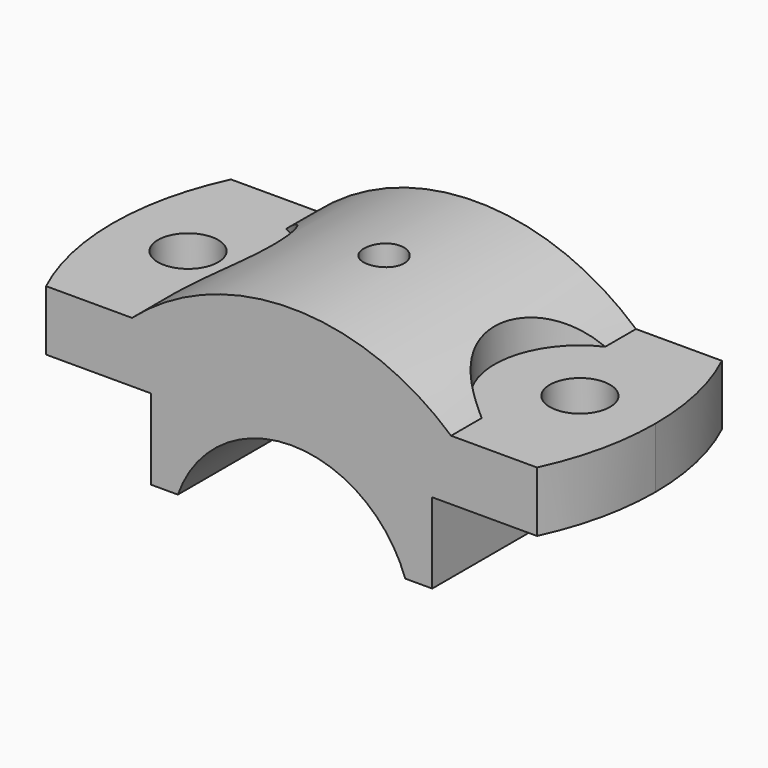
from build123d import *

# Parameters (mm, degrees)
F0_W           = 108
F0_H           = 12
F1_DEPTH       = 23
F3_DEPTH       = 23
F5_DEPTH       = 23
F6_R           = 6
F7_DEPTH       = 16.001
F7_DEPTH_BACK  = 25
F9_DEPTH       = 25
F10_R          = 4
F11_DEPTH      = 16
F12_R          = 3
F13_DEPTH      = 25
F13_DEPTH_BACK = 25
F15_DEPTH      = 25


with BuildPart() as f1:
    # F0 (on Front) → F1 (new body, symmetric)
    with BuildSketch(Plane.XZ):
        with Locations((0, 6)):
            Rectangle(F0_W, F0_H)
    extrude(amount=F1_DEPTH, both=True)

    # F2 (on Front) → F3 (join, symmetric)
    with BuildSketch(Plane.XZ):
        with BuildLine():
            ThreePointArc((-22.627416998, -16), (-13.8564064606, -4.4040820577), (0, 0))
            Line((0, 0), (-28, 0))
            Line((-28, 0), (-28, -16))
            Line((-28, -16), (-22.627416998, -16))
        make_face()
        with BuildLine():
            Line((28, -16), (28, 0))
            Line((28, 0), (0, 0))
            ThreePointArc((0, 0), (13.8564064606, -4.4040820577), (22.627416998, -16))
            Line((22.627416998, -16), (28, -16))
        make_face()
    extrude(amount=F3_DEPTH, both=True)

    # F4 (on Front) → F5 (join, symmetric)
    with BuildSketch(Plane.XZ):
        with BuildLine():
            ThreePointArc((31.7490157328, 12), (0, 24), (-31.7490157328, 12))
            Line((-31.7490157328, 12), (31.7490157328, 12))
        make_face()
    extrude(amount=F5_DEPTH, both=True)

    # F6 (on Top) → F7 (cut, two sides)
    with BuildSketch(Plane.XY) as f7_sk:
        with Locations((-39, 0)):
            Circle(F6_R)
        with Locations((39, 0)):
            Circle(F6_R)
    extrude(amount=-F7_DEPTH, mode=Mode.SUBTRACT)
    extrude(f7_sk.sketch, amount=F7_DEPTH_BACK, mode=Mode.SUBTRACT)

    # F8 (on face) → F9 (cut)
    with BuildSketch(Plane.XY.offset(12)):
        with BuildLine():
            ThreePointArc((31.7490157328, 15.3760601962), (22, 0), (31.7490157328, -15.3760601962))
            Line((31.7490157328, -15.3760601962), (31.7490157328, 15.3760601962))
        make_face()
        with BuildLine():
            Line((-31.7490157328, 15.3760601962), (-31.7490157328, -15.3760601962))
            ThreePointArc((-31.7490157328, -15.3760601962), (-22, 0), (-31.7490157328, 15.3760601962))
        make_face()
    extrude(amount=F9_DEPTH, mode=Mode.SUBTRACT)

    # F10 (on face) → F11 (cut)
    with BuildSketch(Plane.XY.offset(12)):
        Circle(F10_R)
    extrude(amount=F11_DEPTH, mode=Mode.SUBTRACT)

    # F12 (on face) → F13 (cut, two sides)
    with BuildSketch(Plane.XY.offset(12)) as f13_sk:
        Circle(F12_R)
    extrude(amount=-F13_DEPTH, mode=Mode.SUBTRACT)
    extrude(f13_sk.sketch, amount=F13_DEPTH_BACK, mode=Mode.SUBTRACT)

    # F14 (on face) → F15 (cut)
    with BuildSketch(Plane.XY.offset(12)):
        with BuildLine():
            ThreePointArc((-48.8569340012, -23), (-52.6985504358, -11.7840053448), (-54, 0))
            Line((-54, 0), (-54, -23))
            Line((-54, -23), (-48.8569340012, -23))
        make_face()
        with BuildLine():
            ThreePointArc((-54, 0), (-52.6985504358, 11.7840053448), (-48.8569340012, 23))
            Line((-48.8569340012, 23), (-54, 23))
            Line((-54, 23), (-54, 0))
        make_face()
        with BuildLine():
            ThreePointArc((54, 1.623e-07), (52.6985504535, -11.7840052656), (48.8569340012, -23))
            Line((48.8569340012, -23), (54, -23))
            Line((54, -23), (54, 1.623e-07))
        make_face()
        with BuildLine():
            ThreePointArc((48.8569340012, 23), (52.6985504181, 11.784005424), (54, 1.623e-07))
            Line((54, 1.623e-07), (54, 23))
            Line((54, 23), (48.8569340012, 23))
        make_face()
    extrude(amount=-F15_DEPTH, mode=Mode.SUBTRACT)


solid = f1.part
